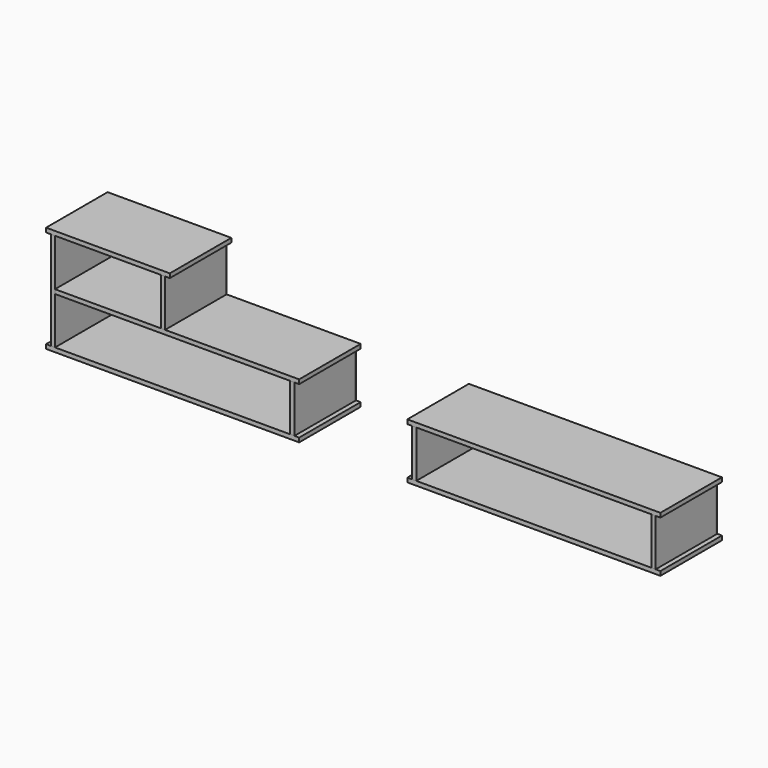
from build123d import *

# Parameters (mm, degrees)
OBJ1        = 486
OBJ2        = 7
OBJ3    = 200
OBJ4        = 18
OBJ5        = 320
OBJ6    = 418
OBJ7        = 1076
OBJ8        = 327
OBJ9    = 18
OBJ10     = 18
OBJ11     = 320
OBJ12 = 200
OBJ13     = 1038
OBJ14     = 327
OBJ15 = 18
OBJ16     = 526
OBJ17     = 327
OBJ18 = 18
OBJ19     = 1036
OBJ20     = 7
OBJ21 = 200


with BuildPart() as del1b2:
    with BuildSketch(Plane(origin=(0, -7, 236), x_dir=(1, 0, 0), z_dir=(0, 0, 1))):
        with Locations((243, 3.5)):
            Rectangle(OBJ1, OBJ2)
    extrude(amount=OBJ3)


with BuildPart() as del1l:
    with BuildSketch(Plane(origin=(0, -327, 18), x_dir=(1, 0, 0), z_dir=(0, 0, 1))):
        with Locations((9, 160)):
            Rectangle(OBJ4, OBJ5)
    extrude(amount=OBJ6)


with BuildPart() as del1u:
    with BuildSketch(Plane(origin=(-20, -327, 0), x_dir=(1, 0, 0), z_dir=(0, 0, 1))):
        with Locations((538, 163.5)):
            Rectangle(OBJ7, OBJ8)
    extrude(amount=OBJ9)


with BuildPart() as del1r1:
    with BuildSketch(Plane(origin=(1018, -327, 18), x_dir=(1, 0, 0), z_dir=(0, 0, 1))):
        with Locations((9, 160)):
            Rectangle(OBJ10, OBJ11)
    extrude(amount=OBJ12)


with BuildPart() as del1h:
    with BuildSketch(Plane(origin=(18, -327, 218), x_dir=(1, 0, 0), z_dir=(0, 0, 1))):
        with Locations((519, 163.5)):
            Rectangle(OBJ13, OBJ14)
    extrude(amount=OBJ15)


with BuildPart() as del1r2:
    # Clone base: copy of Del1R1
    add(del1r1.part)


with BuildPart() as del1r2_1:
    # Clone placement: moved
    add(del1r2.part.moved(Location((-550, 0, 218))))


with BuildPart() as del1o:
    with BuildSketch(Plane(origin=(-20, -327, 436), x_dir=(1, 0, 0), z_dir=(0, 0, 1))):
        with Locations((263, 163.5)):
            Rectangle(OBJ16, OBJ17)
    extrude(amount=OBJ18)


with BuildPart() as del1b1:
    with BuildSketch(Plane(origin=(0, -7, 18), x_dir=(1, 0, 0), z_dir=(0, 0, 1))):
        with Locations((518, 3.5)):
            Rectangle(OBJ19, OBJ20)
    extrude(amount=OBJ21)


with BuildPart() as del2u:
    # Clone001 base: copy of Del1U
    add(del1u.part)


with BuildPart() as del2u_1:
    # Clone001 placement: moved
    add(del2u.part.moved(Location((1536, 0, 0))))


with BuildPart() as del2o:
    # Clone002 base: copy of Del1U
    add(del1u.part)


with BuildPart() as del2o_1:
    # Clone002 placement: moved
    add(del2o.part.moved(Location((1536, 0, 218))))


with BuildPart() as del2l:
    # Clone003 base: copy of Del1R1
    add(del1r1.part)


with BuildPart() as del2l_1:
    # Clone003 placement: moved
    add(del2l.part.moved(Location((518, 0, 0))))


with BuildPart() as del2r:
    # Clone004 base: copy of Del1R1
    add(del1r1.part)


with BuildPart() as del2r_1:
    # Clone004 placement: moved
    add(del2r.part.moved(Location((1536, 0, 0))))


with BuildPart() as del2b:
    # Clone005 base: copy of Del1B1
    add(del1b1.part)


with BuildPart() as del2b_1:
    # Clone005 placement: moved
    add(del2b.part.moved(Location((1536, 0, 0))))


solid = Compound([del1b2.part, del1l.part, del1u.part, del1r1.part, del1h.part, del1r2_1.part, del1o.part, del1b1.part, del2u_1.part, del2o_1.part, del2l_1.part, del2r_1.part, del2b_1.part])
